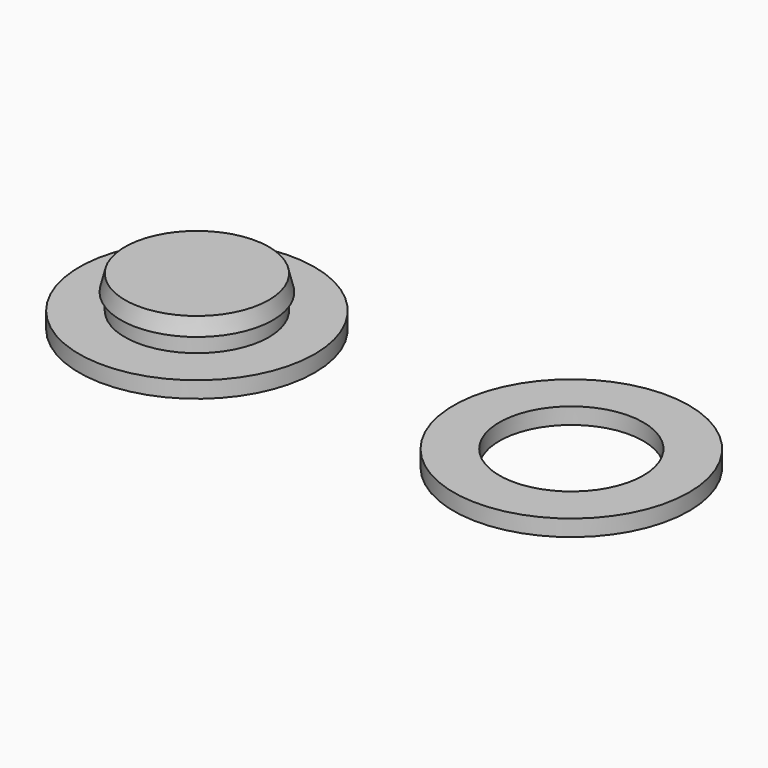
from build123d import *

# Parameters (mm, degrees)
F2_R     = 3.6
F2_R_2   = 2.2
F3_DEPTH = 0.5


with BuildPart() as f1:
    # F0 (on Front) → F1 (revolve)
    with BuildSketch(Plane.XZ):
        Polygon((2.325, 1), (2.2, 1.5), (2.2, 1), align=None)
        Polygon((0, 0.5), (0, 0), (2.2, 0), (3.6, 0), (3.6, 0.5), (2.2, 0.5), (2.2, 1), (2.2, 1.5), (0, 1.5), align=None)
    revolve(axis=Axis((0, 0, 0.75), (0, 0, 1)))


with BuildPart() as f3:
    # F2 (on Top) → F3 (new body)
    with BuildSketch(Plane.XY):
        with Locations((11.443656, 0)):
            Circle(F2_R)
        with Locations((11.443656, 0)):
            Circle(F2_R_2, mode=Mode.SUBTRACT)
    extrude(amount=F3_DEPTH)


solid = Compound([f1.part, f3.part])
